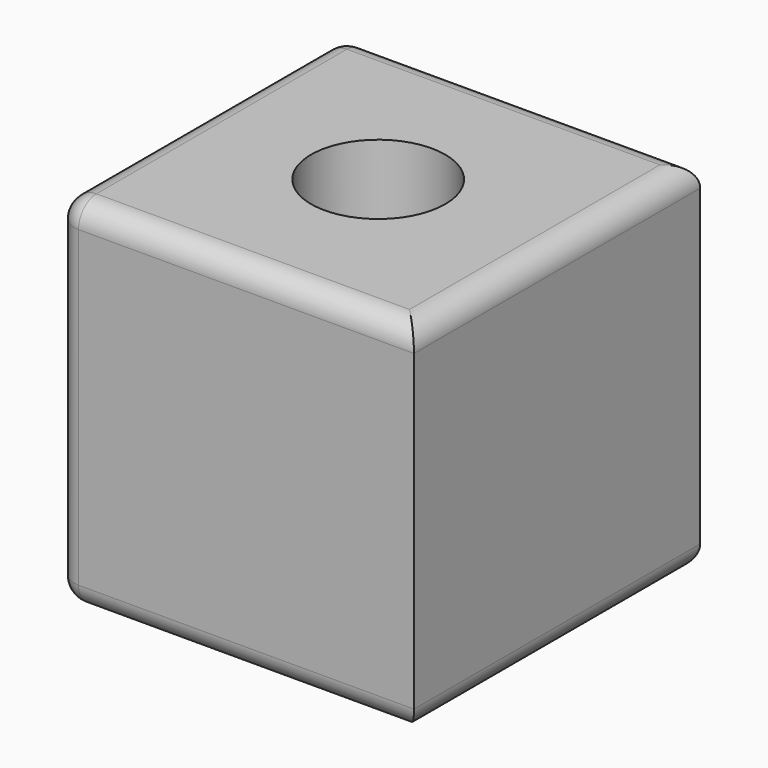
from build123d import *

# Parameters (mm, degrees)
F0_W     = 80
F0_H     = 80
F1_DEPTH = 40
F2_R     = 5
F3_R     = 15
F4_DEPTH = 80.001


with BuildPart() as f1:
    # F0 (on Top) → F1 (new body, symmetric)
    with BuildSketch(Plane.XY):
        Rectangle(F0_W, F0_H)
    extrude(amount=F1_DEPTH, both=True)

    # F2
    f2_edges = [f1.edges().sort_by_distance(p)[0] for p in [
        (40, 0, 40),
        (0, 40, 40),
        (-40, 0, 40),
        (0, -40, 40),
        (-40, 40, 0),
        (-40, 0, -40),
        (-40, -40, 0),
        (0, 40, -40),
        (0, -40, -40),
        (40, 0, -40),
    ]]
    fillet(f2_edges, radius=F2_R)

    # F3 (on face) → F4 (cut, through all)
    with BuildSketch(Plane.XY.offset(40)):
        Circle(F3_R)
    extrude(amount=-F4_DEPTH, mode=Mode.SUBTRACT)


solid = f1.part
